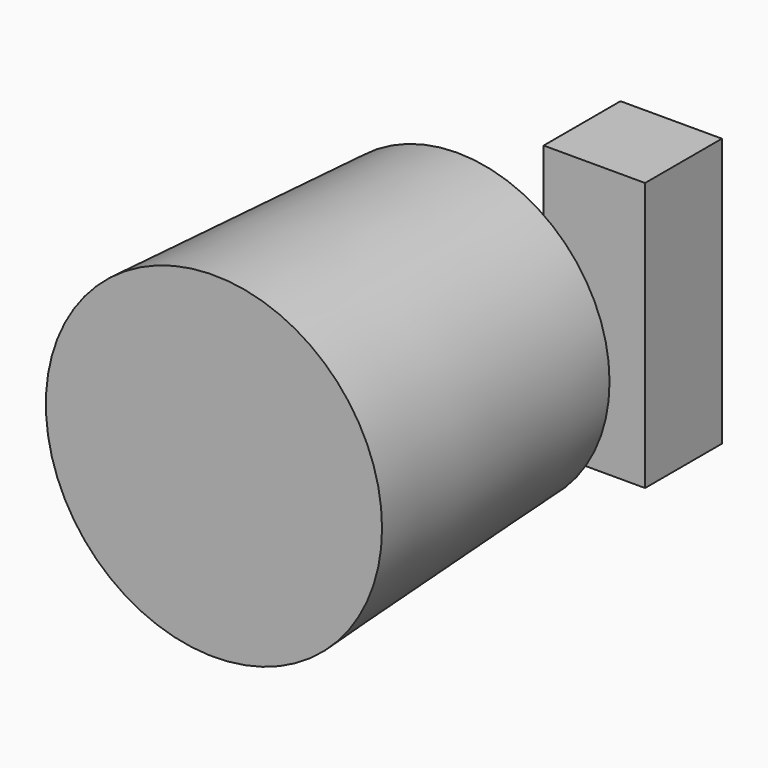
from build123d import *

# Parameters (mm, degrees)
F0_R     = 38.1
F1_DEPTH = 76.2
F1_TAPER = -3
F2_W     = 24.0520853549
F2_H     = 67.2476701438
F3_DEPTH = 25.4


with BuildPart() as f1:
    # F0 (on Front) → F1 (new body)
    with BuildSketch(Plane.XZ):
        Circle(F0_R)
    extrude(amount=F1_DEPTH, taper=F1_TAPER)


with BuildPart() as f3:
    # F2 (on Right) → F3 (new body)
    with BuildSketch(Plane.YZ):
        with Locations((39.0232829377, -4.9085896462)):
            Rectangle(F2_W, F2_H)
    extrude(amount=F3_DEPTH)


solid = Compound([f1.part, f3.part])
